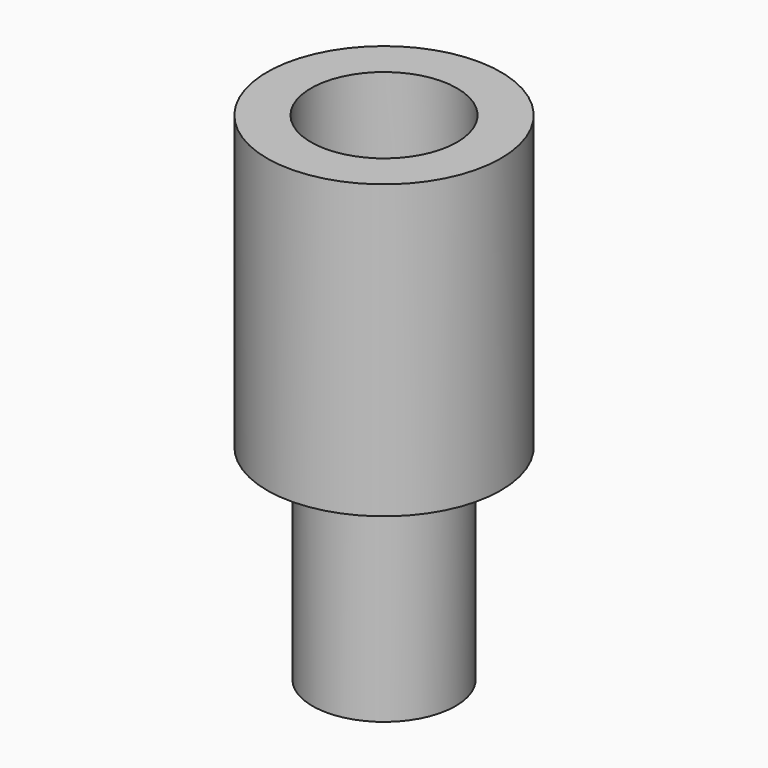
from build123d import *

# Parameters (mm, degrees)
SKETCH007_R     = 2.45
PAD007_DEPTH    = 7
POCKET_START    = -2
SKETCH008_R     = 1.6
POCKET_DEPTH    = 6
SKETCH_R        = 4
PAD_DEPTH       = 10
POCKET001_START = -16
SKETCH010_R     = 2.5
POCKET001_DEPTH = 9
PAD008_DEPTH    = 7


with BuildPart() as part:
    # Sketch007 → Pad007 (new body)
    with BuildSketch(Plane.XY):
        with Locations((4, 4)):
            Circle(SKETCH007_R)
    extrude(amount=-PAD007_DEPTH)

    # Sketch008 → Pocket (cut)
    with BuildSketch(Plane.XY.offset(POCKET_START)):
        with Locations((4, 4)):
            Circle(SKETCH008_R)
    extrude(amount=-POCKET_DEPTH, mode=Mode.SUBTRACT)

    # Sketch → Pad (join)
    with BuildSketch(Plane.XY):
        with Locations((4, 4)):
            Circle(SKETCH_R)
    extrude(amount=PAD_DEPTH)

    # Sketch010 → Pocket001 (cut)
    with BuildSketch(Plane(origin=(0, 0, -15), x_dir=(1, 0, 0), z_dir=(0, 0, -1)).offset(POCKET001_START)):
        with Locations((4, -4)):
            Circle(SKETCH010_R)
    extrude(amount=-POCKET001_DEPTH, mode=Mode.SUBTRACT)

    # Sketch009 → Pad008 (join)
    with BuildSketch(Plane.XY):
        with BuildLine():
            ThreePointArc((5.541903, 5.967876), (4, 6.5), (2.458097, 5.967876))
            Line((2.458097, 5.967876), (5.541903, 5.967876))
        make_face()
        with BuildLine():
            ThreePointArc((2.456381, 2.03347), (4, 1.5), (5.543619, 2.03347))
            Line((2.456381, 2.03347), (5.543619, 2.03347))
        make_face()
    extrude(amount=PAD008_DEPTH)


solid = part.part
